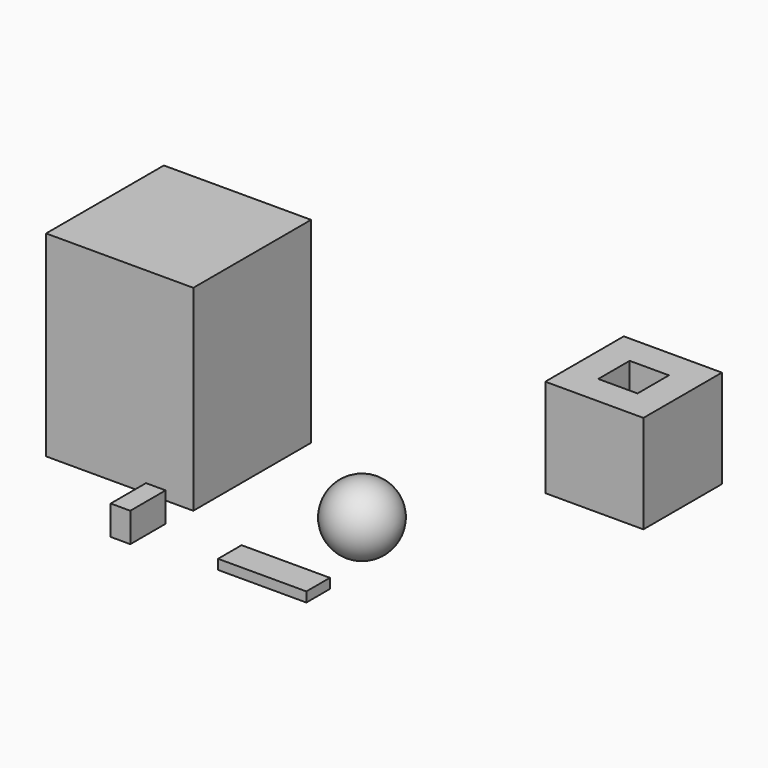
from build123d import *

# Parameters (mm, degrees)
F0_W     = 150
F0_H     = 150
F1_DEPTH = 200
F4_W     = 20
F4_H     = 45
F5_DEPTH = 30
F6_W     = 90
F6_H     = 30
F7_DEPTH = 10
F8_W     = 100
F8_H     = 100
F9_DEPTH = 100
F10_T    = -30


with BuildPart() as f1:
    # F0 (on Top) → F1 (new body)
    with BuildSketch(Plane.XY):
        Rectangle(F0_W, F0_H)
    extrude(amount=F1_DEPTH)


with BuildPart() as f3:
    # F2 (on Top) → F3 (revolve)
    with BuildSketch(Plane.XY):
        with BuildLine():
            ThreePointArc((221.844355, 0), (186.844355, 35), (151.844355, 0))
            Line((151.844355, 0), (221.844355, 0))
        make_face()
    revolve(axis=Axis((186.844355, 0, 0), (1, 0, 0)))


with BuildPart() as f5:
    # F4 (on Top) → F5 (new body)
    with BuildSketch(Plane.XY):
        with Locations((61.825072, -128.778283)):
            Rectangle(F4_W, F4_H)
    extrude(amount=F5_DEPTH)


with BuildPart() as f7:
    # F6 (on Top) → F7 (new body)
    with BuildSketch(Plane.XY):
        with Locations((199.038319, -127.283359)):
            Rectangle(F6_W, F6_H)
    extrude(amount=F7_DEPTH)


with BuildPart() as f9:
    # F8 (on Top) → F9 (new body)
    with BuildSketch(Plane.XY):
        with Locations((324.675895, 173.673192)):
            Rectangle(F8_W, F8_H)
    extrude(amount=F9_DEPTH)

    # F10
    f10_openings = [f9.faces().sort_by_distance(p)[0] for p in [
        (324.675895, 173.673192, 100),
    ]]
    offset(amount=F10_T, openings=f10_openings)


solid = Compound([f1.part, f3.part, f5.part, f7.part, f9.part])
